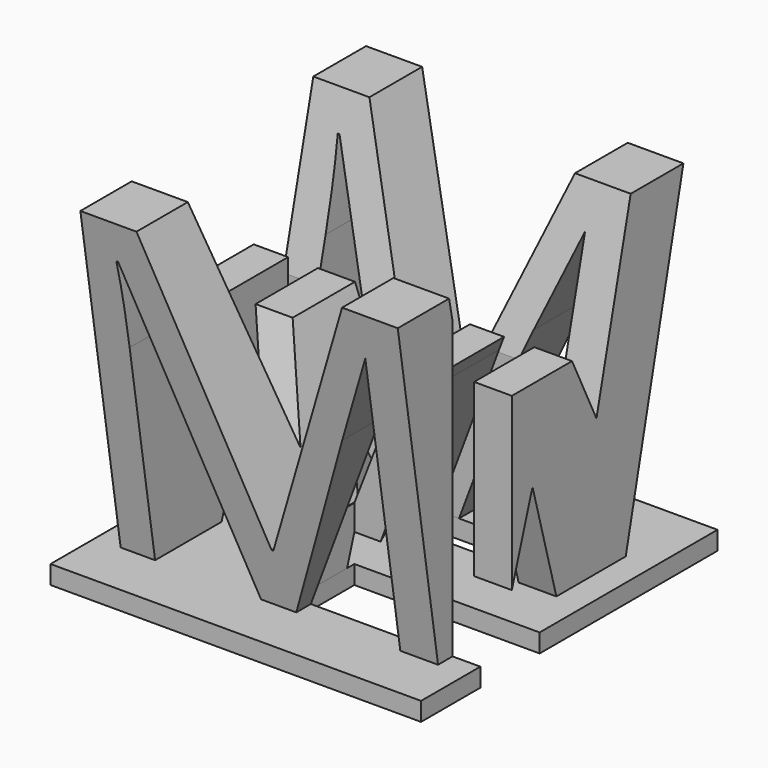
from build123d import *

# Parameters (mm, degrees)
F0_W      = 25.4
F0_H      = 25.4
F1_DEPTH  = 25.4
F4_DEPTH  = 38.1
F6_DEPTH  = 25.4
F8_W      = 20.0962815434
F8_H      = 2.54
F8_W_2    = 12.7
F8_H_2    = 5.08
F9_DEPTH  = 25.4
F10_DEPTH = 1.27


with BuildPart() as f1:
    # F0 (on Right) → F1 (new body)
    with BuildSketch(Plane.YZ):
        with Locations((12.7, -12.7)):
            Rectangle(F0_W, F0_H)
    extrude(amount=F1_DEPTH)

    # F3 (on offset) → F4 (cut)
    with BuildSketch(Plane.YZ.offset(25.4)):
        Polygon((20.91720514, 0), (4.2997440323, 0), (7.6232361607, -16.6274663061), (9.9004441872, -10.4728508741), (15.3165059164, -10.4728508741), (17.4090750515, -14.781082049), align=None)
        Polygon((11.93146687, -16.6890118271), (9.1201418885, -25.4285670817), (14.3317673355, -25.4285670817), align=None)
        Polygon((25.4100747406, -25.4285670817), (25.4100747406, 0), (19.62473616, -25.4285670817), align=None)
        Polygon((4.0437718923, -25.4285670817), (0, 0), (0, -25.4285670817), align=None)
    extrude(amount=-F4_DEPTH, mode=Mode.SUBTRACT)

    # F5 (on Front) → F6 (cut)
    with BuildSketch(Plane.XZ):
        Polygon((5.5881491862, 0), (0, 0), (0, -25.4), (21.59, -25.4), (25.4, -25.4), (25.4, 0), (20.7322615659, 0), align=None)
        Polygon((1.7391315953, -24.3853386492), (1.7391315953, -19.2400895268), (1.7391315953, -2.4179214688), (5.5854729707, -2.4179214688), (12.5425429335, -20.5389972737), (12.6627411015, -20.5389972737), (19.6775061849, -2.4179214688), (23.495, -2.4179214688), (23.495, -24.3853386492), (20.9419909121, -24.3853386492), (20.9080148488, -24.3853386492), (13.6837447062, -24.3853386492), (13.5185520575, -24.3853386492), (11.4607594217, -24.3853386492), (11.1073768078, -24.3853386492), (4.0998236145, -24.3853386492), (3.7612516899, -24.3853386492), (1.7593456432, -24.3853386492), align=None, mode=Mode.SUBTRACT)
        Polygon((12.5522324815, -20.2039610595), (5.7631577365, -2.2304123268), (19.6024235338, -2.2304123268), align=None, mode=Mode.SUBTRACT)
        Polygon((19.6024235338, -2.2304123268), (5.7631577365, -2.2304123268), (12.5522324815, -20.2039610595), align=None)
        with BuildLine():
            Line((4.0998236145, -10.413503603), (4.0998236145, -24.3853386492))
            Line((4.0998236145, -24.3853386492), (11.1073768078, -24.3853386492))
            Line((11.1073768078, -24.3853386492), (11.4607594217, -24.3853386492))
            Line((11.4607594217, -24.3853386492), (4.0084730068, -4.9132354361))
            Line((4.0084730068, -4.9132354361), (3.8882748388, -4.9132354361))
            add(Edge.make_bspline(
                [(3.8882748388, -4.9132354361), (4.0998236145, -7.2258481881), (4.0998236145, -10.413503603)],
                knots=[0, 0, 0, 1, 1, 1], degree=2))
        make_face()
        Polygon((18.5489627532, -11.3699958127), (13.6837447062, -24.3853386492), (20.9080148488, -24.3853386492), (20.9080148488, -5.2663447092), align=None)
    extrude(amount=-F6_DEPTH, mode=Mode.SUBTRACT)

    # F8 (on offset) → F9 (cut)
    with BuildSketch(Plane.XY.offset(-25.4)):
        with Locations((10.0481407717, 16.51)):
            Rectangle(F8_W, F8_H)
        with Locations((19.05, 7.62)):
            Rectangle(F8_W_2, F8_H_2)
    extrude(amount=F9_DEPTH, mode=Mode.SUBTRACT)


with BuildPart() as f10:
    # F8 (on offset) → F10 (new body)
    with BuildSketch(Plane.XY.offset(-25.4)):
        Polygon((0, 15.24), (0, 0), (25.4, 0), (25.4, 5.08), (12.7, 5.08), (12.7, 10.16), (25.4, 10.16), (25.4, 25.4), (0.9083829937, 25.4), (0, 25.4), (0, 17.78), (20.0962815434, 17.78), (20.0962815434, 15.24), align=None)
    extrude(amount=F10_DEPTH)


solid = Compound([f1.part, f10.part])
